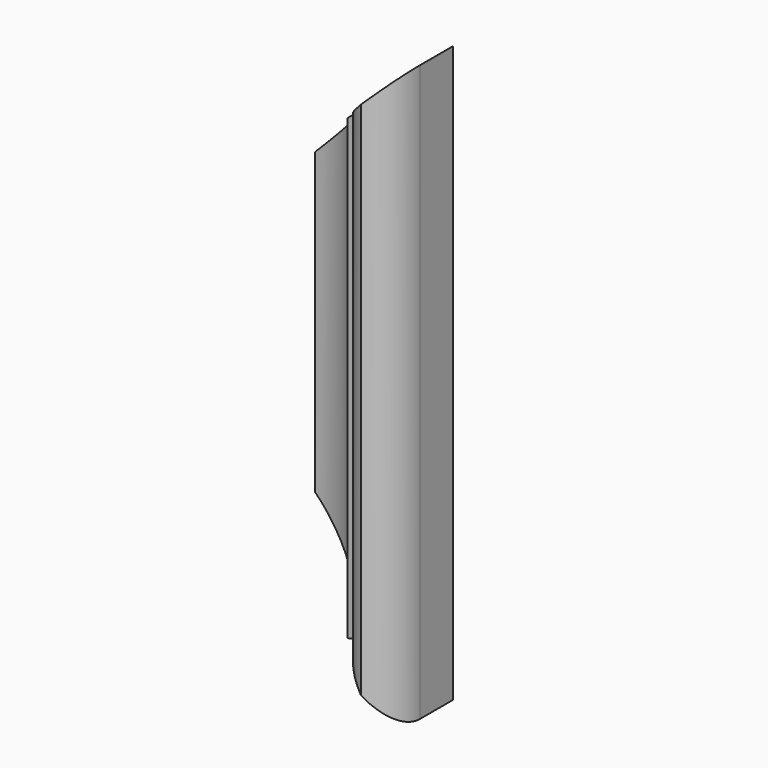
from build123d import *

# Parameters (mm, degrees)
SKETCH007_W          = 25
SKETCH007_H          = 104
PAD003_DEPTH         = 15
FRAME45CUT002_SIZE   = 24.99
ROUTERPATTERN003_R   = 15
ROUTER003_DEPTH      = 52.001
ROUTER003_DEPTH_BACK = 52.001
ROUTER007_DEPTH      = 52.001
ROUTER007_DEPTH_BACK = 52.001
ROUTER011_DEPTH      = 52.001
ROUTER011_DEPTH_BACK = 52.001


with BuildPart() as part:
    # Sketch007 → Pad003 (new body)
    with BuildSketch(Plane(origin=(354, -33, 23), x_dir=(1, 0, 0), z_dir=(0, -1, 0))):
        with Locations((12.5, 52)):
            Rectangle(SKETCH007_W, SKETCH007_H)
    extrude(amount=-PAD003_DEPTH)

    # Frame45Cut002
    frame45cut002_edges = [part.edges().sort_by_distance(p)[0] for p in [
        (354, -25.5, 127),
        (354, -25.5, 23),
    ]]
    chamfer(frame45cut002_edges, length=FRAME45CUT002_SIZE)

    # routerPattern003 → router003 (cut, two sides)
    with BuildSketch(Plane(origin=(354, -33, 75), x_dir=(1, 0, 0), z_dir=(0, 0, 1))) as router003_sk:
        Circle(ROUTERPATTERN003_R)
    extrude(amount=-ROUTER003_DEPTH, mode=Mode.SUBTRACT)
    extrude(router003_sk.sketch, amount=ROUTER003_DEPTH_BACK, mode=Mode.SUBTRACT)

    # routerPattern007 → router007 (cut, two sides)
    with BuildSketch(Plane(origin=(369, -33, 75), x_dir=(1, 0, 0), z_dir=(0, 0, 1))) as router007_sk:
        with BuildLine():
            ThreePointArc((7.500025, 0), (2.196715, -2.196698), (0, -7.5))
            ThreePointArc((0, -7.5), (-2.196715, -2.196698), (-7.500025, 0))
            ThreePointArc((-7.500025, 0), (-2.196707, 2.196707), (0, 7.500025))
            ThreePointArc((0, 7.500025), (2.196707, 2.196707), (7.500025, 0))
        make_face()
    extrude(amount=-ROUTER007_DEPTH, mode=Mode.SUBTRACT)
    extrude(router007_sk.sketch, amount=ROUTER007_DEPTH_BACK, mode=Mode.SUBTRACT)

    # routerPattern011 → router011 (cut, two sides)
    with BuildSketch(Plane(origin=(379, -33, 75), x_dir=(1, 0, 0), z_dir=(0, 0, 1))) as router011_sk:
        with BuildLine():
            ThreePointArc((7.50002, 0), (2.196712, -2.196698), (0, -7.5))
            ThreePointArc((0, -7.5), (-2.196712, -2.196698), (-7.50002, 0))
            ThreePointArc((-7.50002, 0), (-2.196705, 2.196705), (0, 7.50002))
            ThreePointArc((0, 7.50002), (2.196705, 2.196705), (7.50002, 0))
        make_face()
    extrude(amount=-ROUTER011_DEPTH, mode=Mode.SUBTRACT)
    extrude(router011_sk.sketch, amount=ROUTER011_DEPTH_BACK, mode=Mode.SUBTRACT)


solid = part.part
